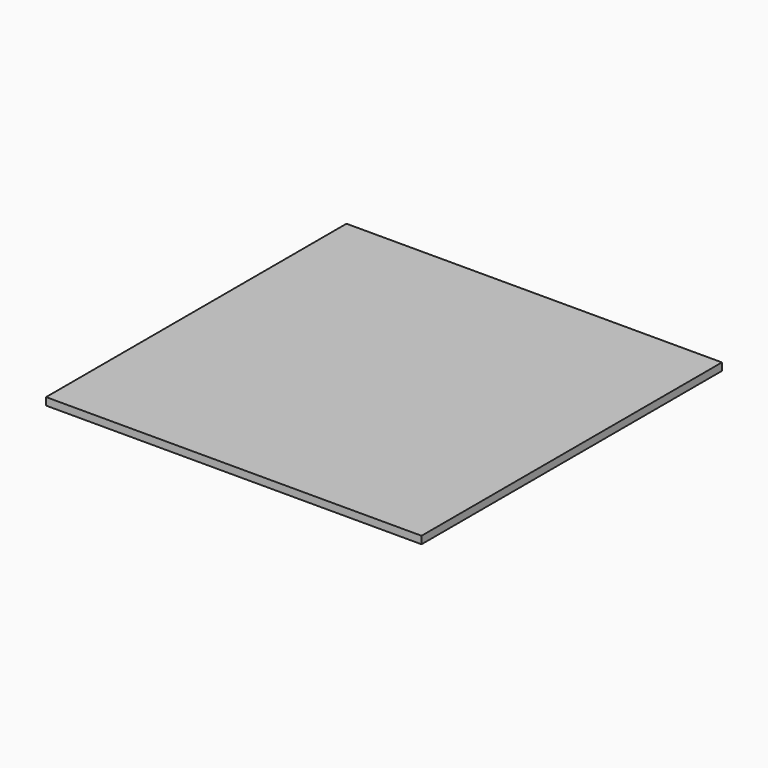
from build123d import *

# Parameters (mm, degrees)
BOX_GLASS_W     = 200
BOX_GLASS_H     = 200
BOX_GLASS_DEPTH = 4


with BuildPart() as part:
    # Box_Glass → Box_Glass (new body)
    with BuildSketch(Plane(origin=(-100, -100, 0), x_dir=(1, 0, 0), z_dir=(0, 0, 1))):
        with Locations((100, 100)):
            Rectangle(BOX_GLASS_W, BOX_GLASS_H)
    extrude(amount=BOX_GLASS_DEPTH)


solid = part.part
